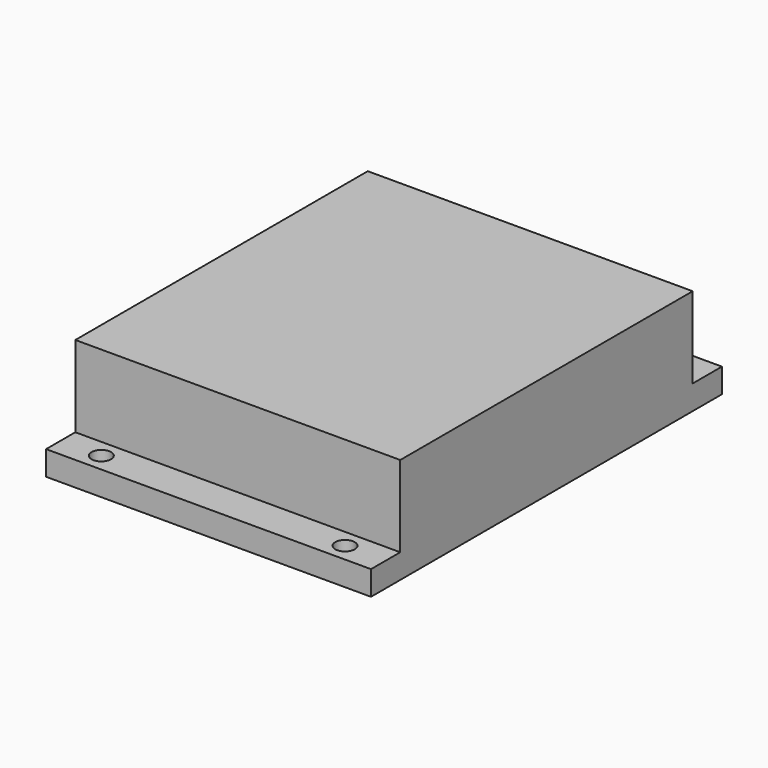
from build123d import *

# Parameters (mm, degrees)
PAD_DEPTH     = 5
PAD004_DEPTH  = 5
SKETCH007_W   = 40
SKETCH007_H   = 45
PAD005_DEPTH  = 5
SKETCH008_W   = 40
SKETCH008_H   = 45
SKETCH008_W_2 = 30
SKETCH008_H_2 = 40
PAD006_DEPTH  = 5
SKETCH009_W   = 40
SKETCH009_H   = 54
SKETCH009_W_2 = 30
SKETCH009_H_2 = 40
PAD007_DEPTH  = 3
SKETCH010_R   = 1.2
HOLE001_DEPTH = 25


with BuildPart() as cuerpo:
    # Sketch → Pad (new body)
    with BuildSketch(Plane.XY):
        with BuildLine():
            Line((15, -15), (15, 15))
            ThreePointArc((15, 15), (13.535534, 18.535534), (10, 20))
            Line((10, 20), (-10, 20))
            ThreePointArc((-10, 20), (-13.535534, 18.535534), (-15, 15))
            Line((-15, 15), (-15, -15))
            ThreePointArc((-15, -15), (-13.535534, -18.535534), (-10, -20))
            Line((-10, -20), (10, -20))
            ThreePointArc((10, -20), (13.535534, -18.535534), (15, -15))
        make_face()
    extrude(amount=PAD_DEPTH)


with BuildPart() as cuerpo002:
    # Sketch006 → Pad004 (new body)
    with BuildSketch(Plane.XY):
        with BuildLine():
            Line((15, -15), (15, 15))
            ThreePointArc((15, 15), (13.535534, 18.535534), (10, 20))
            Line((10, 20), (-10, 20))
            ThreePointArc((-10, 20), (-13.535534, 18.535534), (-15, 15))
            Line((-15, 15), (-15, -15))
            ThreePointArc((-15, -15), (-13.535534, -18.535534), (-10, -20))
            Line((-10, -20), (10, -20))
            ThreePointArc((10, -20), (13.535534, -18.535534), (15, -15))
        make_face()
    extrude(amount=PAD004_DEPTH)

    # Sketch007 (on Face10 of Pad004) → Pad005 (join)
    with BuildSketch(Plane.XY.offset(5)):
        Rectangle(SKETCH007_W, SKETCH007_H)
    extrude(amount=PAD005_DEPTH)

    # Sketch008 (on Face4 of Pad005) → Pad006 (join)
    with BuildSketch(Plane(origin=(0, 0, 5), x_dir=(1, 0, 0), z_dir=(0, 0, -1))):
        Rectangle(SKETCH008_W, SKETCH008_H)
        Rectangle(SKETCH008_W_2, SKETCH008_H_2, mode=Mode.SUBTRACT)
    extrude(amount=PAD006_DEPTH)

    # Sketch009 (on Face9 of Pad006) → Pad007 (join)
    with BuildSketch(Plane(origin=(0, 0, 0), x_dir=(1, 0, 0), z_dir=(0, 0, -1))):
        Rectangle(SKETCH009_W, SKETCH009_H)
        Rectangle(SKETCH009_W_2, SKETCH009_H_2, mode=Mode.SUBTRACT)
    extrude(amount=PAD007_DEPTH)

    # Sketch010 (on Face11 of Pad007) → Hole001 (cut)
    with BuildSketch(Plane.XY):
        with Locations((-15, -24.75)):
            Circle(SKETCH010_R)
        with Locations((15, -24.75)):
            Circle(SKETCH010_R)
        with Locations((15, 24.75)):
            Circle(SKETCH010_R)
        with Locations((-15, 24.75)):
            Circle(SKETCH010_R)
    extrude(amount=-HOLE001_DEPTH, mode=Mode.SUBTRACT)


solid = Compound([cuerpo.part, cuerpo002.part])
